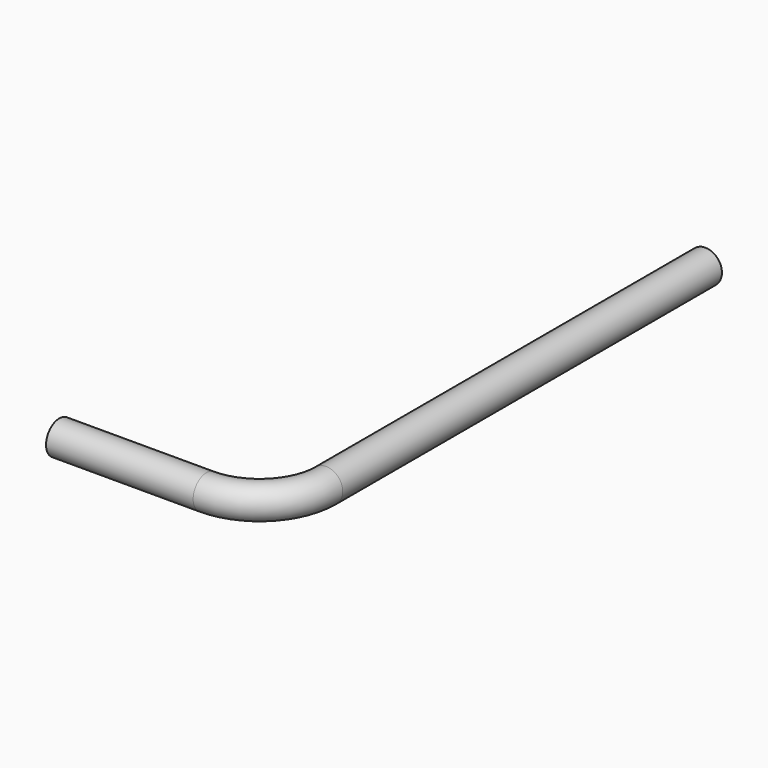
from build123d import *

# Parameters (mm, degrees)
F1_R = 5


with BuildPart() as f2:
    # F2: sweep along a path in F0
    with BuildLine(Plane.XY) as f2_path:
        Line((0, 0), (44.235, 0))
        ThreePointArc((44.235, 0), (58.377136, 5.857864), (64.235, 20))
        Line((64.235, 20), (64.235, 162.56))
    # F1 (on Right) → F2 (sweep)
    with BuildSketch(Plane.YZ):
        Circle(F1_R)
    sweep(path=f2_path.line)


solid = f2.part
